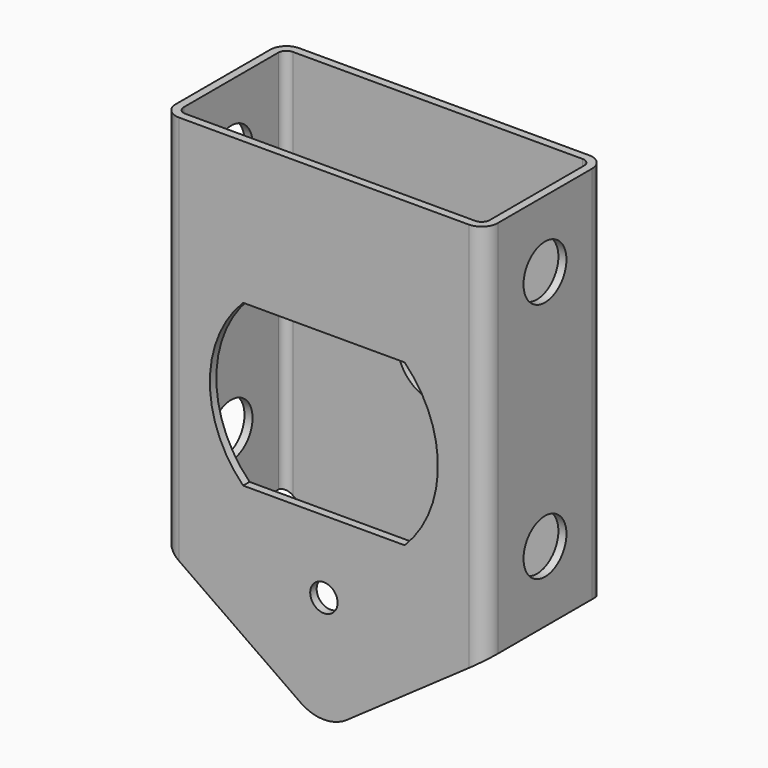
from build123d import *

# Parameters (mm, degrees)
F0_R     = 5.1
F1_DEPTH = 56
F3_DEPTH = 180.001
F5_DEPTH = 3
F6_R     = 15
F7_DEPTH = 25
F8_R     = 10
F9_DEPTH = 120.001
F10_R    = 6


with BuildPart() as f1:
    # F0 (on Front) → F1 (new body)
    with BuildSketch(Plane.XZ):
        with BuildLine():
            Line((60, 100), (-60, 100))
            Line((-60, 100), (-60, -41.2991665388))
            Line((-60, -41.2991665388), (-8.6036465453, -77.2872806643))
            ThreePointArc((-8.6036465453, -77.2872806643), (0, -80), (8.6036465453, -77.2872806643))
            Line((8.6036465453, -77.2872806643), (60, -41.2991665388))
            Line((60, -41.2991665388), (60, 100))
        make_face()
        with Locations((0, -40)):
            Circle(F0_R, mode=Mode.SUBTRACT)
    extrude(amount=F1_DEPTH)

    # F2 (on face) → F3 (cut, through all)
    with BuildSketch(Plane.XY.offset(100)):
        with BuildLine():
            Line((54, -3), (-54, -3))
            ThreePointArc((-54, -3), (-56.1213203436, -3.8786796564), (-57, -6))
            Line((-57, -6), (-57, -50))
            ThreePointArc((-57, -50), (-56.1213203436, -52.1213203436), (-54, -53))
            Line((-54, -53), (54, -53))
            ThreePointArc((54, -53), (56.1213203436, -52.1213203436), (57, -50))
            Line((57, -50), (57, -6))
            ThreePointArc((57, -6), (56.1213203436, -3.8786796564), (54, -3))
        make_face()
    extrude(amount=-F3_DEPTH, mode=Mode.SUBTRACT)

    # F4 (on face) → F5 (cut, through all)
    with BuildSketch(Plane.XZ.offset(56)):
        with BuildLine():
            Line((30.103986447, 47), (-30.103986447, 47))
            ThreePointArc((-30.103986447, 47), (-42.5, 17), (-30.103986447, -13))
            Line((-30.103986447, -13), (30.103986447, -13))
            ThreePointArc((30.103986447, -13), (42.5, 17), (30.103986447, 47))
        make_face()
    extrude(amount=-F5_DEPTH, mode=Mode.SUBTRACT)

    # F6 (on face) → F7 (cut)
    with BuildSketch(Plane.XZ.offset(3)):
        with Locations((0, 17.0000000293)):
            Circle(F6_R)
    extrude(amount=-F7_DEPTH, mode=Mode.SUBTRACT)

    # F8 (on face) → F9 (cut, through all)
    with BuildSketch(Plane.YZ.offset(60)):
        with Locations((-28, 75)):
            Circle(F8_R)
        with Locations((-28, -15)):
            Circle(F8_R)
    extrude(amount=-F9_DEPTH, mode=Mode.SUBTRACT)

    # F10
    f10_edges = [f1.edges().sort_by_distance(p)[0] for p in [
        (-60, -56, 29.350417),
        (60, -56, 29.350417),
        (-60, 0, 29.350417),
        (60, 0, 29.350417),
    ]]
    fillet(f10_edges, radius=F10_R)


solid = f1.part
